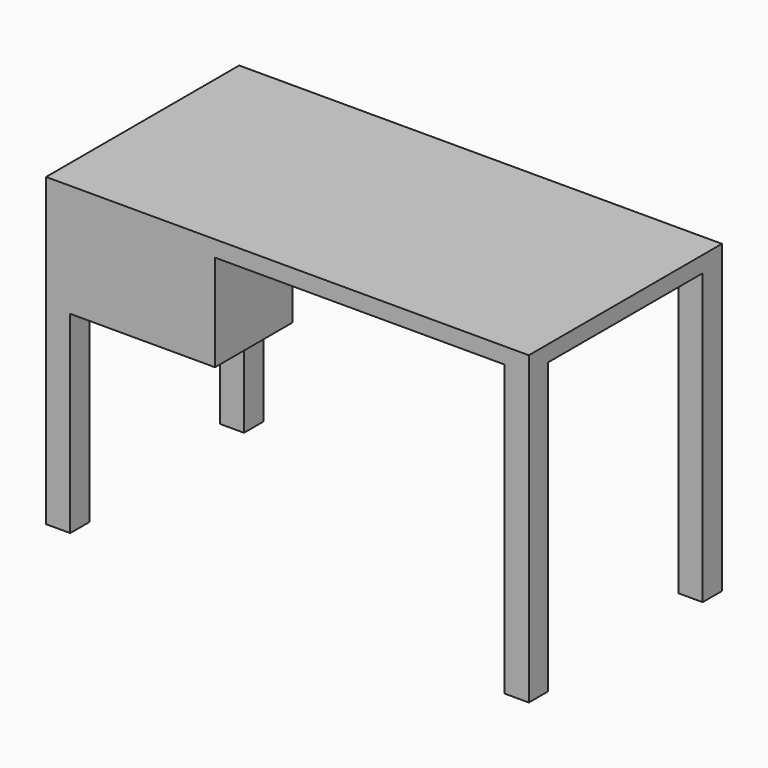
from build123d import *

# Parameters (mm, degrees)
F0_W     = 1524
F0_H     = 762
F1_DEPTH = 50.8
F2_W     = 76.2
F2_H     = 76.2
F3_DEPTH = 914.4
F4_W     = 457.2
F4_H     = 304.8
F5_DEPTH = 304.8


with BuildPart() as f1:
    # F0 (on Top) → F1 (new body)
    with BuildSketch(Plane.XY):
        with Locations((762, -381)):
            Rectangle(F0_W, F0_H)
    extrude(amount=-F1_DEPTH)

    # F2 (on face) → F3 (join)
    with BuildSketch(Plane(origin=(0, 0, -50.8), x_dir=(1, 0, 0), z_dir=(0, 0, -1))):
        with Locations((38.1, 723.9)):
            Rectangle(F2_W, F2_H)
        with Locations((38.1, 38.1)):
            Rectangle(F2_W, F2_H)
        with Locations((1485.9, 38.1)):
            Rectangle(F2_W, F2_H)
        with Locations((1485.9, 723.9)):
            Rectangle(F2_W, F2_H)
    extrude(amount=F3_DEPTH)

    # F4 (on face) → F5 (join)
    with BuildSketch(Plane.XZ.offset(762)):
        with Locations((304.8, -203.2)):
            Rectangle(F4_W, F4_H)
    extrude(amount=-F5_DEPTH)


solid = f1.part
